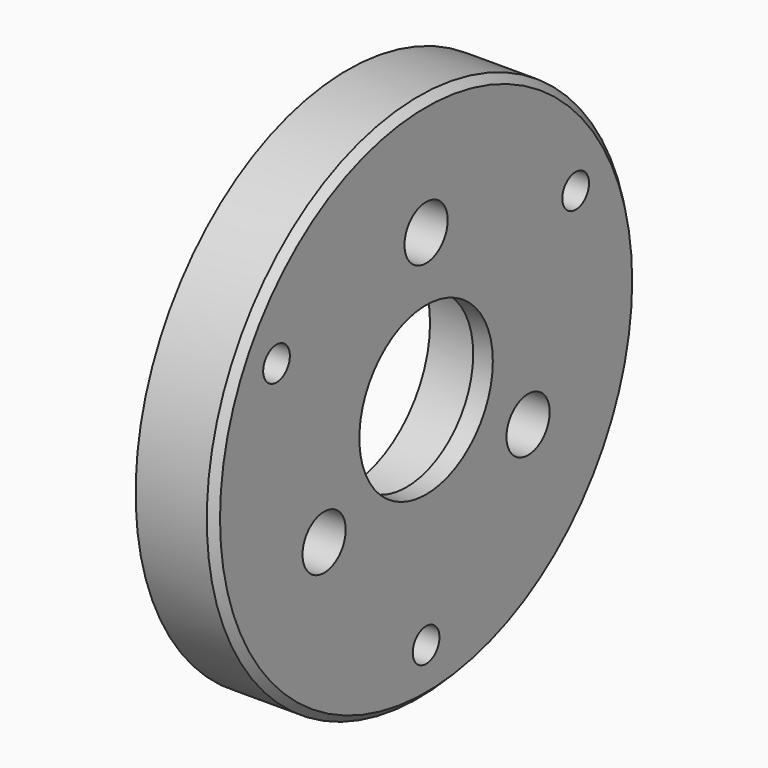
from build123d import *

# Parameters (mm, degrees)
SKETCH046_R         = 27
SKETCH046_R_2       = 8.5
SKETCH046_R_3       = 1.65
PAD029_DEPTH        = 8
SKETCH048_R         = 10.5
POCKET014_DEPTH     = 6
HOLE_D              = 3.4
HOLE_CBORE_D        = 5.5
HOLE_CBORE_DEPTH    = 4
HOLE001_D           = 3.4
HOLE001_CBORE_D     = 5.5
HOLE001_CBORE_DEPTH = 4
CHAMFER_SIZE        = 0.75


with BuildPart() as part:
    # Sketch046 → Pad029 (new body)
    with BuildSketch(Plane.YZ.offset(69)):
        with Locations((-10, -6)):
            Circle(SKETCH046_R)
        with Locations((-10, -6)):
            Circle(SKETCH046_R_2, mode=Mode.SUBTRACT)
        with Locations((-10, 9)):
            Circle(SKETCH046_R_3, mode=Mode.SUBTRACT)
        with Locations((2.990381, -13.5)):
            Circle(SKETCH046_R_3, mode=Mode.SUBTRACT)
        with Locations((-22.990381, -13.5)):
            Circle(SKETCH046_R_3, mode=Mode.SUBTRACT)
    extrude(amount=PAD029_DEPTH)

    # Sketch048 → Pocket014 (cut)
    with BuildSketch(Plane.YZ.offset(69)):
        with Locations((-10, -6)):
            Circle(SKETCH048_R)
    extrude(amount=POCKET014_DEPTH, mode=Mode.SUBTRACT)

    # Hole (through all)
    with Locations(Plane(origin=(69, 0, 0), x_dir=(0, 1, 0), z_dir=(-1, 0, 0))):
        with Locations((-29.052559, -5), (9.052559, -5), (-10, 28)):
            CounterBoreHole(HOLE_D / 2, HOLE_CBORE_D / 2, HOLE_CBORE_DEPTH)

    # Hole001 (through all)
    with Locations(Plane.YZ.offset(77)):
        with Locations((-22.990381, -13.5), (-10, 9), (2.990381, -13.5)):
            CounterBoreHole(HOLE001_D / 2, HOLE001_CBORE_D / 2, HOLE001_CBORE_DEPTH)

    # Chamfer
    chamfer_edges = [part.edges().sort_by_distance(p)[0] for p in [
        (77, -37, -6),
    ]]
    chamfer(chamfer_edges, length=CHAMFER_SIZE)


with BuildPart() as part_1:
    # Body011 placement: moved
    add(part.part.moved(Location((2, -6, 7))))


solid = part_1.part
